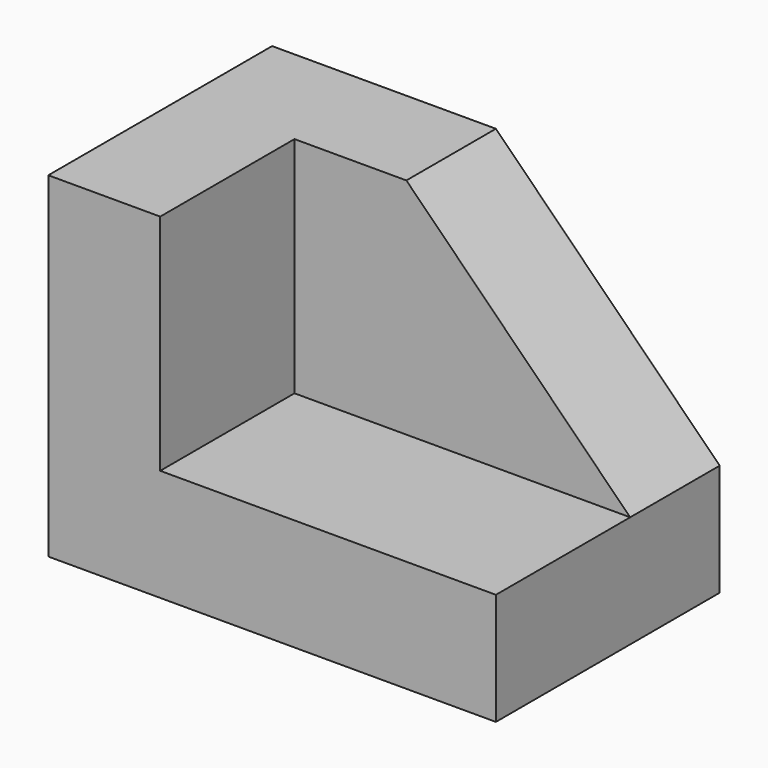
from build123d import *

# Parameters (mm, degrees)
F0_W     = 101.6
F0_H     = 63.5
F1_DEPTH = 25.4
F3_DEPTH = 50.8
F5_DEPTH = 25.4


with BuildPart() as f1:
    # F0 (on Top) → F1 (new body)
    with BuildSketch(Plane.XY):
        with Locations((1.061673, 2.829394)):
            Rectangle(F0_W, F0_H)
    extrude(amount=F1_DEPTH)

    # F2 (on face) → F3 (join)
    with BuildSketch(Plane.XY.offset(25.4)):
        Polygon((-49.738327, 9.179394), (-49.738327, -28.920606), (-24.338327, -28.920606), (-24.338327, 9.179394), (1.061673, 9.179394), (1.061673, 34.579394), (-24.338327, 34.579394), (-49.738327, 34.579394), align=None)
    extrude(amount=F3_DEPTH)

    # F4 (on face) → F5 (join)
    with BuildSketch(Plane(origin=(0, 34.579394, 0), x_dir=(-1, 0, 0), z_dir=(0, 1, 0))):
        Polygon((-1.061673, 25.4), (-1.061673, 76.2), (-51.861673, 25.4), align=None)
    extrude(amount=-F5_DEPTH)


solid = f1.part
